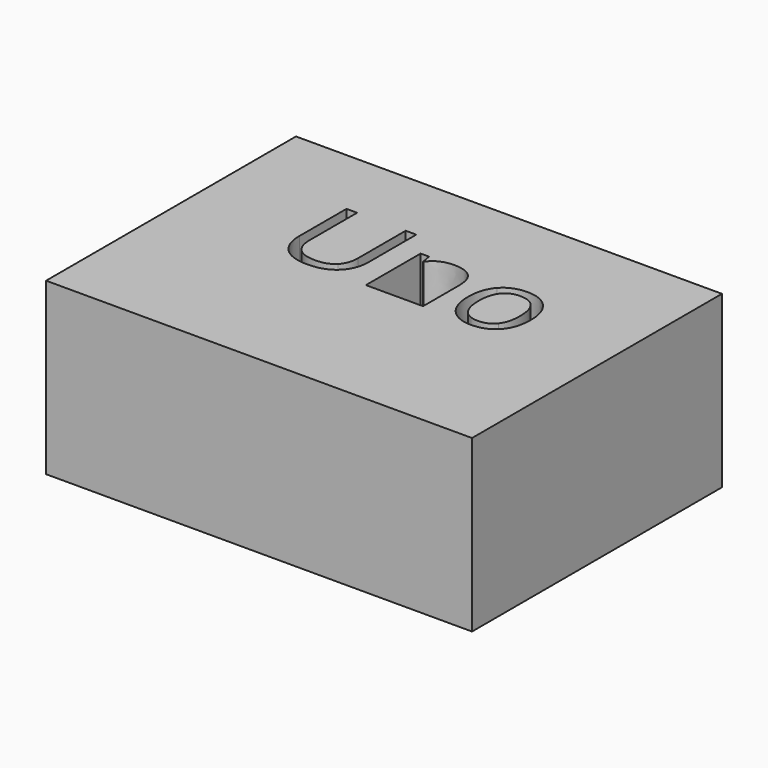
from build123d import *

# Parameters (mm, degrees)
F0_W     = 75
F0_H     = 55
F1_DEPTH = 30
F3_DEPTH = 25


with BuildPart() as f1:
    # F0 (on Top) → F1 (new body)
    with BuildSketch(Plane.XY):
        with Locations((-1.7472282052, 5.8279882101)):
            Rectangle(F0_W, F0_H)
    extrude(amount=F1_DEPTH)

    # F2 (on face) → F3 (cut)
    with BuildSketch(Plane.XY.offset(30)):
        with BuildLine():
            Line((-4.0867042615, 16.8077548728), (-4.0867042615, 4.7675450332))
            Line((-4.0867042615, 4.7675450332), (-2.2622169894, 4.7675450332))
            Line((-2.2622169894, 4.7675450332), (-2.2622169894, 11.0847003856))
            add(Edge.make_bspline(
                [(-1.3833695559, 14.4577168355), (-2.2622169894, 13.4364961177), (-2.2622169894, 11.0847003856)],
                knots=[0, 0, 0, 1, 1, 1], degree=2))
            add(Edge.make_bspline(
                [(1.3832421649, 15.4789375533), (-0.5045221224, 15.4789375533), (-1.3833695559, 14.4577168355)],
                knots=[0, 0, 0, 1, 1, 1], degree=2))
            add(Edge.make_bspline(
                [(3.4836875311, 14.7530095732), (2.8140057867, 15.4789375533), (1.3832421649, 15.4789375533)],
                knots=[0, 0, 0, 1, 1, 1], degree=2))
            add(Edge.make_bspline(
                [(4.1533692754, 12.5576486842), (4.1533692754, 14.0270815931), (3.4836875311, 14.7530095732)],
                knots=[0, 0, 0, 1, 1, 1], degree=2))
            Line((4.1533692754, 12.5576486842), (4.1533692754, 4.7675450332))
            Line((4.1533692754, 4.7675450332), (5.9778565475, 4.7675450332))
            Line((5.9778565475, 4.7675450332), (5.9778565475, 12.6209256994))
            add(Edge.make_bspline(
                [(4.8792972555, 15.9798805904), (5.9778565475, 14.9305367547), (5.9778565475, 12.6209256994)],
                knots=[0, 0, 0, 1, 1, 1], degree=2))
            add(Edge.make_bspline(
                [(1.6047117181, 17.029224426), (3.7807379636, 17.029224426), (4.8792972555, 15.9798805904)],
                knots=[0, 0, 0, 1, 1, 1], degree=2))
            add(Edge.make_bspline(
                [(-0.6468954066, 16.5388275581), (0.363779142, 17.029224426), (1.6047117181, 17.029224426)],
                knots=[0, 0, 0, 1, 1, 1], degree=2))
            add(Edge.make_bspline(
                [(-2.2200323126, 15.1590370875), (-1.6575699552, 16.0484306902), (-0.6468954066, 16.5388275581)],
                knots=[0, 0, 0, 1, 1, 1], degree=2))
            Line((-2.2200323126, 15.1590370875), (-2.307917056, 15.1590370875))
            Line((-2.307917056, 15.1590370875), (-2.6032097937, 16.8077548728))
            Line((-2.6032097937, 16.8077548728), (-4.0867042615, 16.8077548728))
        make_face()
        with BuildLine():
            add(Edge.make_bspline(
                [(-12.2786519386, 4.7675450332), (-13.1925449458, 4.54607548), (-14.2813344906, 4.54607548)],
                knots=[0.6245807712, 0.6245807712, 0.6245807712, 1, 1, 1], degree=2))
            Line((-12.2786519386, 4.7675450332), (-16.2668224103, 4.7675450332))
            add(Edge.make_bspline(
                [(-14.2813344906, 4.54607548), (-15.3658863063, 4.54607548), (-16.2668224103, 4.7675450332)],
                knots=[0, 0, 0, 0.3739580419, 0.3739580419, 0.3739580419], degree=2))
        make_face()
        with BuildLine():
            Line((-16.2668224103, 4.7675450332), (-12.2786519386, 4.7675450332))
            add(Edge.make_bspline(
                [(-9.7218740054, 6.1174546912), (-10.7582183658, 5.1360014515), (-12.2786519386, 4.7675450332)],
                knots=[0, 0, 0, 0.6245807712, 0.6245807712, 0.6245807712], degree=2))
            add(Edge.make_bspline(
                [(-8.0626100508, 10.4378686745), (-8.0626100508, 7.6888339023), (-9.7218740054, 6.1174546912)],
                knots=[0, 0, 0, 1, 1, 1], degree=2))
            Line((-8.0626100508, 10.4378686745), (-8.0626100508, 20.8293607287))
            Line((-8.0626100508, 20.8293607287), (-9.9292819997, 20.8293607287))
            Line((-9.9292819997, 20.8293607287), (-9.9292819997, 10.3710762695))
            add(Edge.make_bspline(
                [(-11.0278412916, 7.2669871342), (-9.9292819997, 8.3497271724), (-9.9292819997, 10.3710762695)],
                knots=[0, 0, 0, 1, 1, 1], degree=2))
            add(Edge.make_bspline(
                [(-14.1582958499, 6.1842470961), (-12.1264005835, 6.1842470961), (-11.0278412916, 7.2669871342)],
                knots=[0, 0, 0, 1, 1, 1], degree=2))
            add(Edge.make_bspline(
                [(-17.3871813207, 7.2617140496), (-16.2886220288, 6.1842470961), (-14.1582958499, 6.1842470961)],
                knots=[0, 0, 0, 1, 1, 1], degree=2))
            add(Edge.make_bspline(
                [(-18.4857406127, 10.3499839311), (-18.4857406127, 8.3391810032), (-17.3871813207, 7.2617140496)],
                knots=[0, 0, 0, 1, 1, 1], degree=2))
            Line((-18.4857406127, 10.3499839311), (-18.4857406127, 20.8293607287))
            Line((-18.4857406127, 20.8293607287), (-20.3559279512, 20.8293607287))
            Line((-20.3559279512, 20.8293607287), (-20.3559279512, 10.4800533513))
            add(Edge.make_bspline(
                [(-18.7687294863, 6.1297585552), (-20.3559279512, 7.7134416305), (-20.3559279512, 10.4800533513)],
                knots=[0, 0, 0, 1, 1, 1], degree=2))
            add(Edge.make_bspline(
                [(-16.2668224103, 4.7675450332), (-17.7750766513, 5.1383065018), (-18.7687294863, 6.1297585552)],
                knots=[0.3739580419, 0.3739580419, 0.3739580419, 1, 1, 1], degree=2))
        make_face()
        with BuildLine():
            add(Edge.make_bspline(
                [(12.8943034011, 4.7675450332), (12.2413601129, 4.9561574078), (11.6657571374, 5.3053996626)],
                knots=[0.5400617249, 0.5400617249, 0.5400617249, 1, 1, 1], degree=2))
            Line((12.8943034011, 4.7675450332), (16.2966207559, 4.7675450332))
            add(Edge.make_bspline(
                [(18.6315018956, 6.2000663499), (17.691967628, 5.1513098305), (16.2966207559, 4.7675450332)],
                knots=[0, 0, 0, 0.6340763655, 0.6340763655, 0.6340763655], degree=2))
            add(Edge.make_bspline(
                [(20.1132386686, 10.7999538171), (20.1132386686, 7.8540572199), (18.6315018956, 6.2000663499)],
                knots=[0, 0, 0, 1, 1, 1], degree=2))
            add(Edge.make_bspline(
                [(18.6244711162, 15.3471104382), (20.1132386686, 13.6649964504), (20.1132386686, 10.7999538171)],
                knots=[0, 0, 0, 1, 1, 1], degree=2))
            add(Edge.make_bspline(
                [(14.6116537346, 17.029224426), (17.1357035637, 17.029224426), (18.6244711162, 15.3471104382)],
                knots=[0, 0, 0, 1, 1, 1], degree=2))
            add(Edge.make_bspline(
                [(10.5232554737, 15.3857797253), (11.9962037724, 17.029224426), (14.6116537346, 17.029224426)],
                knots=[0, 0, 0, 1, 1, 1], degree=2))
            add(Edge.make_bspline(
                [(9.0503071751, 10.7999538171), (9.0503071751, 13.7423350246), (10.5232554737, 15.3857797253)],
                knots=[0, 0, 0, 1, 1, 1], degree=2))
            add(Edge.make_bspline(
                [(9.7322927836, 7.481425908), (9.0503071751, 8.8981279709), (9.0503071751, 10.7999538171)],
                knots=[0, 0, 0, 1, 1, 1], degree=2))
            add(Edge.make_bspline(
                [(11.6657571374, 5.3053996626), (10.414278392, 6.0647238452), (9.7322927836, 7.481425908)],
                knots=[0, 0, 0, 1, 1, 1], degree=2))
        make_face()
        with BuildLine():
            add(Edge.make_bspline(
                [(10.9415868521, 10.7999538171), (10.9415868521, 8.4903427617), (11.8643766573, 7.282806388)],
                knots=[0, 0, 0, 1, 1, 1], degree=2))
            add(Edge.make_bspline(
                [(11.8538304881, 14.3030396872), (10.9415868521, 13.1271418211), (10.9415868521, 10.7999538171)],
                knots=[0, 0, 0, 1, 1, 1], degree=2))
            add(Edge.make_bspline(
                [(14.5554074988, 15.4789375533), (12.7660741242, 15.4789375533), (11.8538304881, 14.3030396872)],
                knots=[0, 0, 0, 1, 1, 1], degree=2))
            add(Edge.make_bspline(
                [(17.2974114915, 14.2872204334), (16.3693486017, 15.4789375533), (14.5554074988, 15.4789375533)],
                knots=[0, 0, 0, 1, 1, 1], degree=2))
            add(Edge.make_bspline(
                [(18.2254743813, 10.7999538171), (18.2254743813, 13.0955033135), (17.2974114915, 14.2872204334)],
                knots=[0, 0, 0, 1, 1, 1], degree=2))
            add(Edge.make_bspline(
                [(17.2974114915, 7.2775333034), (18.2254743813, 8.4797965925), (18.2254743813, 10.7999538171)],
                knots=[0, 0, 0, 1, 1, 1], degree=2))
            add(Edge.make_bspline(
                [(14.5764998373, 6.0752700144), (16.3693486017, 6.0752700144), (17.2974114915, 7.2775333034)],
                knots=[0, 0, 0, 1, 1, 1], degree=2))
            add(Edge.make_bspline(
                [(11.8643766573, 7.282806388), (12.7871664626, 6.0752700144), (14.5764998373, 6.0752700144)],
                knots=[0, 0, 0, 1, 1, 1], degree=2))
        make_face(mode=Mode.SUBTRACT)
        with BuildLine():
            Line((16.2966207559, 4.7675450332), (12.8943034011, 4.7675450332))
            add(Edge.make_bspline(
                [(14.5343151604, 4.54607548), (13.6609925365, 4.54607548), (12.8943034011, 4.7675450332)],
                knots=[0, 0, 0, 0.5400617249, 0.5400617249, 0.5400617249], degree=2))
            add(Edge.make_bspline(
                [(16.2966207559, 4.7675450332), (15.4913701164, 4.54607548), (14.5343151604, 4.54607548)],
                knots=[0.6340763655, 0.6340763655, 0.6340763655, 1, 1, 1], degree=2))
        make_face()
        with BuildLine():
            Line((-2.2622169894, 11.0847003856), (-2.2622169894, 4.7675450332))
            Line((-2.2622169894, 4.7675450332), (4.1533692754, 4.7675450332))
            Line((4.1533692754, 4.7675450332), (4.1533692754, 12.5576486842))
            add(Edge.make_bspline(
                [(4.1533692754, 12.5576486842), (4.1533692754, 14.0270815931), (3.4836875311, 14.7530095732)],
                knots=[0, 0, 0, 1, 1, 1], degree=2))
            add(Edge.make_bspline(
                [(3.4836875311, 14.7530095732), (2.8140057867, 15.4789375533), (1.3832421649, 15.4789375533)],
                knots=[0, 0, 0, 1, 1, 1], degree=2))
            add(Edge.make_bspline(
                [(1.3832421649, 15.4789375533), (-0.5045221224, 15.4789375533), (-1.3833695559, 14.4577168355)],
                knots=[0, 0, 0, 1, 1, 1], degree=2))
            add(Edge.make_bspline(
                [(-1.3833695559, 14.4577168355), (-2.2622169894, 13.4364961177), (-2.2622169894, 11.0847003856)],
                knots=[0, 0, 0, 1, 1, 1], degree=2))
        make_face()
    extrude(amount=-F3_DEPTH, mode=Mode.SUBTRACT)


solid = f1.part
